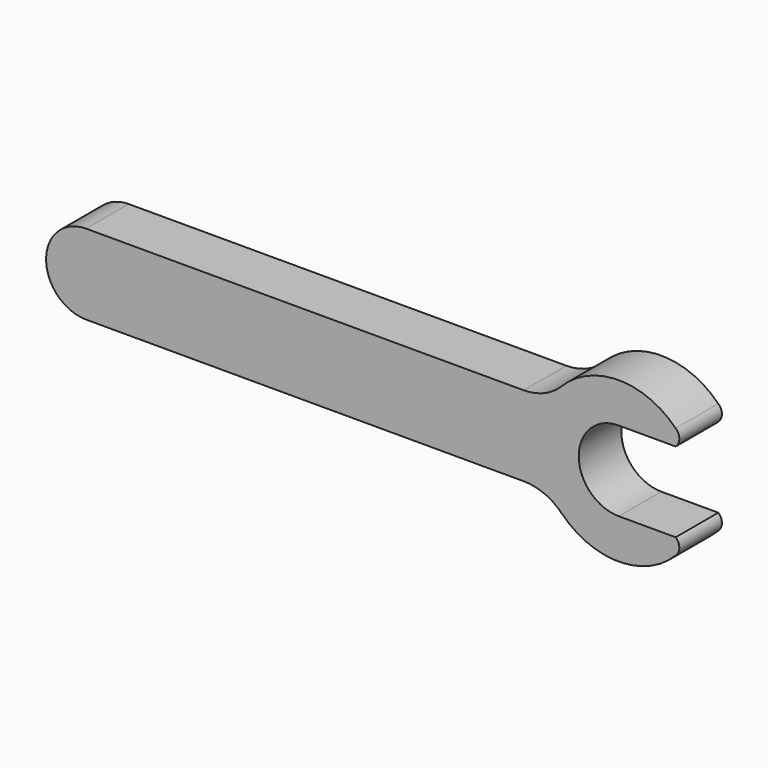
from build123d import *

# Parameters (mm, degrees)
F1_DEPTH = 6.35


with BuildPart() as f1:
    # F0 (on Front) → F1 (new body)
    with BuildSketch(Plane.XZ):
        with BuildLine():
            Line((52.175445, 0), (0, 0))
            ThreePointArc((0, 0), (-4.7752, -4.7752), (0, -9.5504))
            Line((0, -9.5504), (52.175445, -9.5504))
            ThreePointArc((52.175445, -9.5504), (54.631508, -10.044612), (56.705267, -11.45032))
            ThreePointArc((56.705267, -11.45032), (63.5, -14.3002), (70.294733, -11.45032))
            ThreePointArc((70.294733, -11.45032), (70.729047, -10.49401), (70.294733, -9.5377))
            Line((70.294733, -9.5377), (63.5, -9.5377))
            ThreePointArc((63.5, -9.5377), (58.7375, -4.7752), (63.5, -0.0127))
            Line((63.5, -0.0127), (70.294733, -0.0127))
            ThreePointArc((70.294733, -0.0127), (70.729047, 0.94361), (70.294733, 1.89992))
            ThreePointArc((70.294733, 1.89992), (63.5, 4.7498), (56.705267, 1.89992))
            ThreePointArc((56.705267, 1.89992), (54.631508, 0.494212), (52.175445, 0))
        make_face()
    extrude(amount=F1_DEPTH)


solid = f1.part
